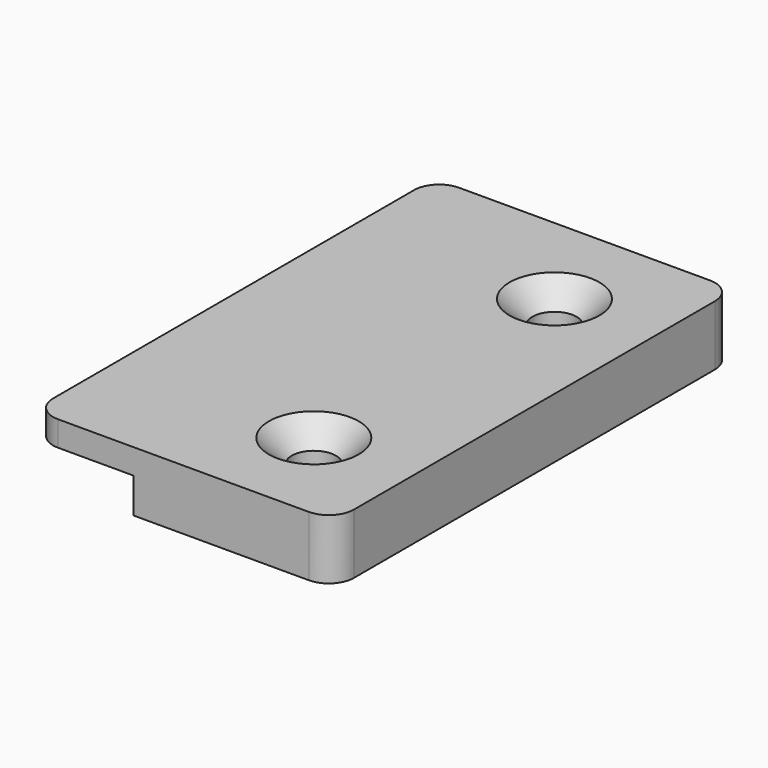
from build123d import *

# Parameters (mm, degrees)
F0_W           = 30
F0_H           = 50
F1_DEPTH       = 6
F3_D           = 4.4
F3_CSINK_D     = 8.96
F3_CSINK_ANGLE = 90
F4_W           = 10
F4_H           = 50
F5_DEPTH       = 3.5
F6_R           = 2.5


with BuildPart() as f1:
    # F0 (on Top) → F1 (new body)
    with BuildSketch(Plane.XY):
        Rectangle(F0_W, F0_H)
    extrude(amount=F1_DEPTH)

    # F3 (through all)
    with Locations(Plane.XY.offset(6)):
        with Locations((5, 15), (5, -15)):
            CounterSinkHole(F3_D / 2, F3_CSINK_D / 2, counter_sink_angle=F3_CSINK_ANGLE)

    # F4 (on face) → F5 (cut)
    with BuildSketch(Plane(origin=(0, 0, 0), x_dir=(1, 0, 0), z_dir=(0, 0, -1))):
        with Locations((-10, 0)):
            Rectangle(F4_W, F4_H)
    extrude(amount=-F5_DEPTH, mode=Mode.SUBTRACT)

    # F6
    f6_edges = [f1.edges().sort_by_distance(p)[0] for p in [
        (-15, -25, 4.75),
        (15, -25, 3),
        (-15, 25, 4.75),
        (15, 25, 3),
    ]]
    fillet(f6_edges, radius=F6_R)


solid = f1.part
